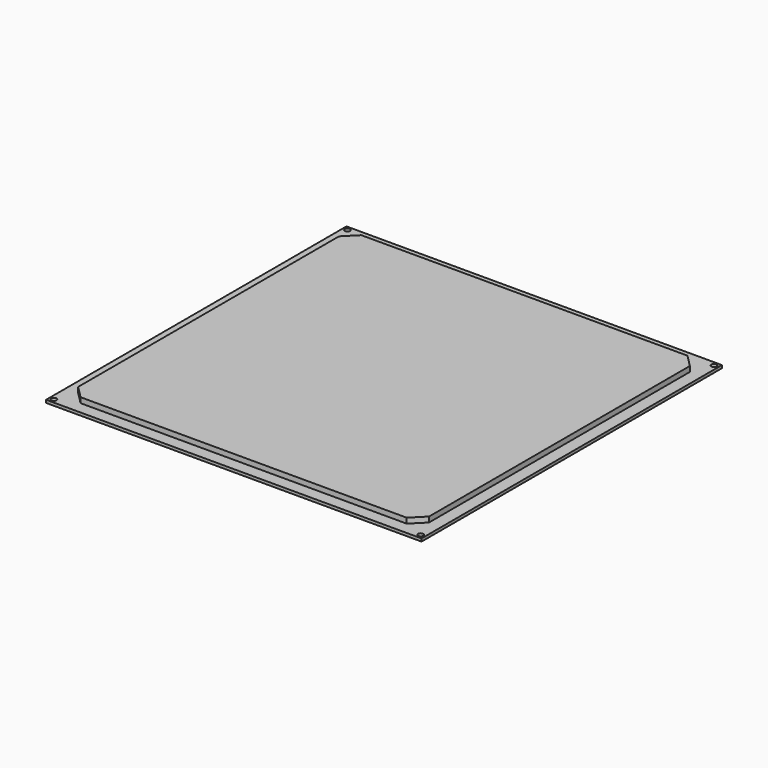
from build123d import *

# Parameters (mm, degrees)
F0_W     = 214
F0_H     = 214
F0_R     = 1.5
F0_R_2   = 1
F1_DEPTH = 1.6
F2_R     = 1
F3_DEPTH = 3


with BuildPart() as f1:
    # F0 (on Top) → F1 (new body)
    with BuildSketch(Plane.XY):
        Rectangle(F0_W, F0_H)
        with Locations((-104.5, -104.5)):
            Circle(F0_R, mode=Mode.SUBTRACT)
        Circle(F0_R_2, mode=Mode.SUBTRACT)
        with Locations((104.5, -104.5)):
            Circle(F0_R, mode=Mode.SUBTRACT)
        with Locations((-104.5, 104.5)):
            Circle(F0_R, mode=Mode.SUBTRACT)
        with Locations((104.5, 104.5)):
            Circle(F0_R, mode=Mode.SUBTRACT)
    extrude(amount=F1_DEPTH)


with BuildPart() as f3:
    # F2 (on face) → F3 (new body)
    with BuildSketch(Plane.XY.offset(1.6)):
        Polygon((100, 92.928932), (92.928932, 100), (-92.928932, 100), (-100, 92.928932), (-100, -92.928932), (-92.928932, -100), (92.928932, -100), (100, -92.928932), align=None)
        Circle(F2_R, mode=Mode.SUBTRACT)
        Circle(F2_R)
    extrude(amount=F3_DEPTH)


solid = Compound([f1.part, f3.part])
